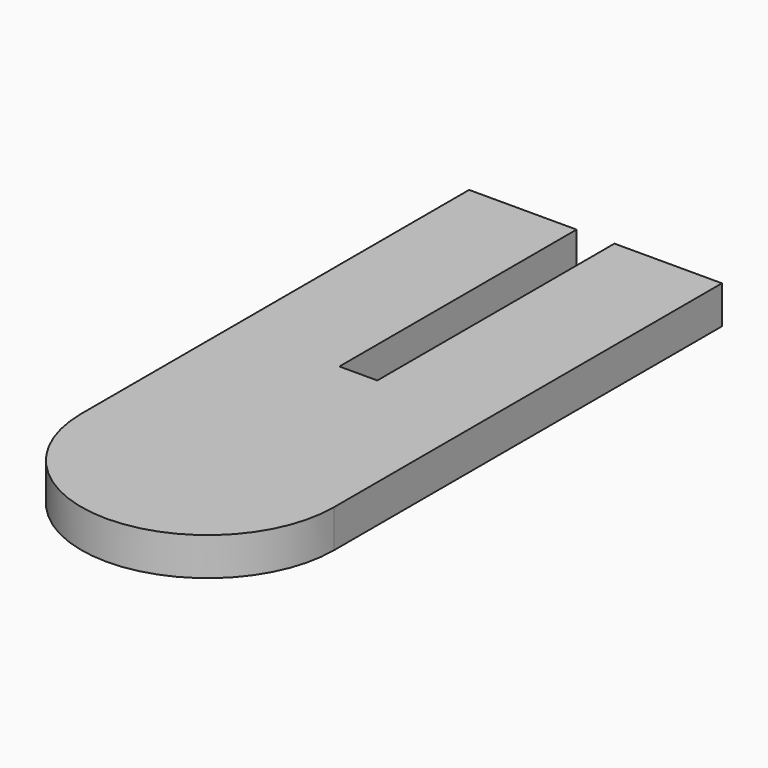
from build123d import *

# Parameters (mm, degrees)
F1_DEPTH = 3


with BuildPart() as f1:
    # F0 (on Top) → F1 (new body)
    with BuildSketch(Plane.XY):
        Polygon((-1.5, 19.17), (-10, 19.17), (-10, -19.17), (10, -19.17), (10, 19.17), (1.5, 19.17), (1.5, -4.28), (-1.5, -4.28), align=None)
        with BuildLine():
            Line((10, -19.17), (-10, -19.17))
            ThreePointArc((-10, -19.17), (0, -29.17), (10, -19.17))
        make_face()
    extrude(amount=F1_DEPTH)


solid = f1.part
